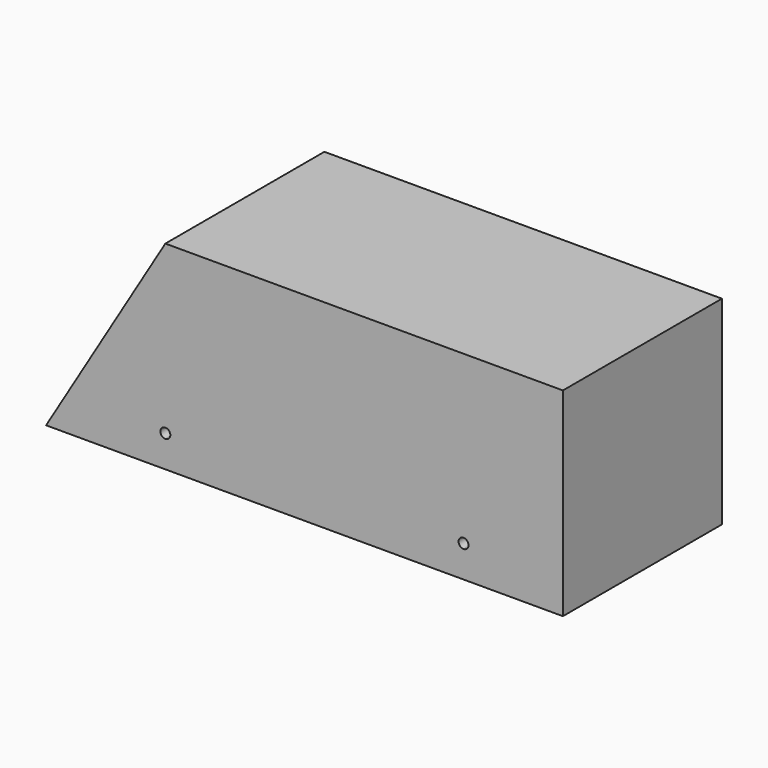
from build123d import *

# Parameters (mm, degrees)
F1_DEPTH = 50


with BuildPart() as f1:
    # F0 (on Front) → F1 (new body)
    with BuildSketch(Plane.XZ):
        Polygon((25, -25), (50, -25), (50, 25), (-50, 25), (-80, -25), (-50, -25), align=None)
        with BuildLine():
            ThreePointArc((-48.75, -17), (-49.116117, -17.883883), (-50, -18.25))
            ThreePointArc((-50, -18.25), (-50.883883, -16.116117), (-48.75, -17))
        make_face(mode=Mode.SUBTRACT)
        with BuildLine():
            ThreePointArc((25, -18.25), (24.116117, -16.116117), (26.25, -17))
            ThreePointArc((26.25, -17), (25.883883, -17.883883), (25, -18.25))
        make_face(mode=Mode.SUBTRACT)
    extrude(amount=F1_DEPTH)


solid = f1.part
